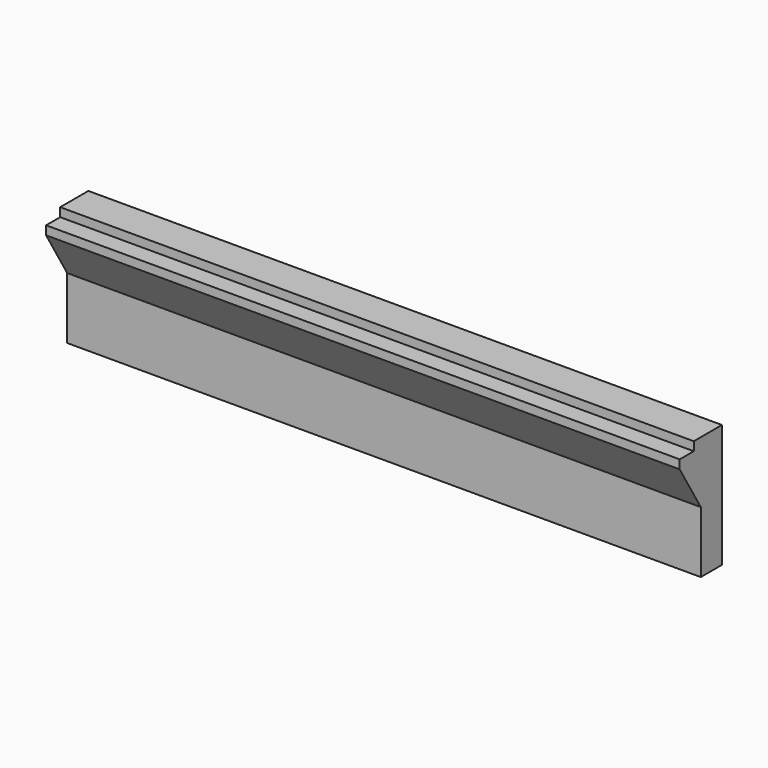
from build123d import *

# Parameters (mm, degrees)
F0_W     = 914.4
F0_H     = 76.2
F1_DEPTH = 177.8
F3_DEPTH = 2133.6
F4_W     = 25.4
F4_H     = 12.7
F5_DEPTH = 2438.4


with BuildPart() as f1:
    # F0 (on Top) → F1 (new body)
    with BuildSketch(Plane.XY):
        with Locations((325.290451, 32.179302)):
            Rectangle(F0_W, F0_H)
    extrude(amount=F1_DEPTH)

    # F2 (on face) → F3 (cut)
    with BuildSketch(Plane.YZ.offset(782.490451)):
        Polygon((32.179302, 88.9), (-5.920698, 152.4), (-5.920698, 0), (32.179302, 0), align=None)
    extrude(amount=-F3_DEPTH, mode=Mode.SUBTRACT)

    # F4 (on face) → F5 (cut)
    with BuildSketch(Plane.YZ.offset(782.490451)):
        with Locations((6.779302, 171.45)):
            Rectangle(F4_W, F4_H)
    extrude(amount=-F5_DEPTH, mode=Mode.SUBTRACT)


solid = f1.part
